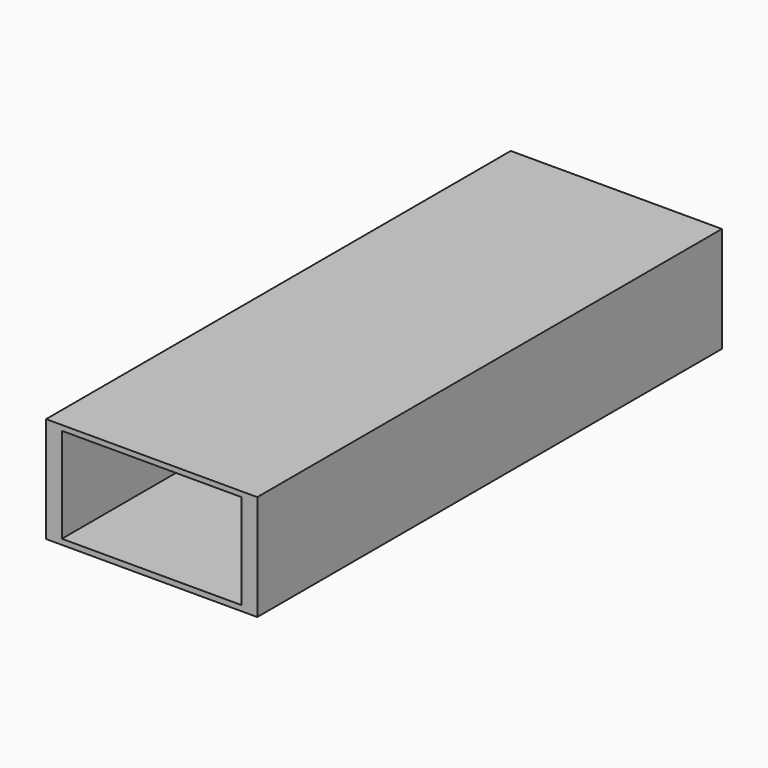
from build123d import *

# Parameters (mm, degrees)
SKETCH_W         = 100
SKETCH_H         = 250
PAD_DEPTH        = 50
SKETCH001_W      = 85
SKETCH001_H      = 45
POCKET_DEPTH     = 200
POCKET_FACE1_W   = 100
POCKET_FACE1_H   = 50
POCKET_FACE1_W_2 = 85
POCKET_FACE1_H_2 = 45
PAD001_DEPTH     = 25


with BuildPart() as part:
    # Sketch → Pad (new body)
    with BuildSketch(Plane.XY):
        Rectangle(SKETCH_W, SKETCH_H)
    extrude(amount=PAD_DEPTH)

    # Sketch001 (on Face1 of Pad) → Pocket (cut)
    with BuildSketch(Plane.XZ.offset(125)):
        with Locations((0, 25.06513)):
            Rectangle(SKETCH001_W, SKETCH001_H)
    extrude(amount=-POCKET_DEPTH, mode=Mode.SUBTRACT)

    # Pocket Face1 → Pad001 (add)
    with BuildSketch(Plane(origin=(0, -125, 24.787981), x_dir=(-1, 0, 0), z_dir=(0, -1, 0))):
        with Locations((0, -0.212019)):
            Rectangle(POCKET_FACE1_W, POCKET_FACE1_H)
        with Locations((0, -0.277149)):
            Rectangle(POCKET_FACE1_W_2, POCKET_FACE1_H_2, mode=Mode.SUBTRACT)
    extrude(amount=PAD001_DEPTH)


solid = part.part
